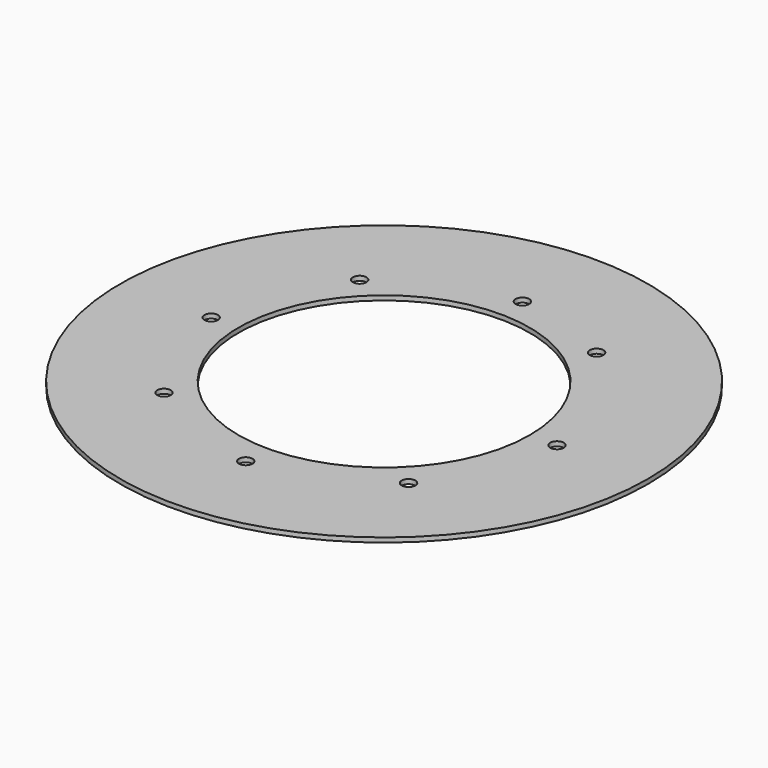
from build123d import *

# Parameters (mm, degrees)
CYLINDER2163_R               = 1.5
CYLINDER2163_DEPTH           = 100
CYLINDER2164_R               = 1.5
CYLINDER2164_DEPTH           = 100
CYLINDER2164_PLACEMENT_ANGLE = 145
CYLINDER2165_R               = 1.5
CYLINDER2165_DEPTH           = 100
CYLINDER2166_R               = 1.5
CYLINDER2166_DEPTH           = 100
CYLINDER2166_PLACEMENT_ANGLE = 225
CYLINDER2167_R               = 1.5
CYLINDER2167_DEPTH           = 100
CYLINDER2168_R               = 1.5
CYLINDER2168_DEPTH           = 100
CYLINDER2168_PLACEMENT_ANGLE = 45
CYLINDER2162_R               = 1.5
CYLINDER2162_DEPTH           = 100
CYLINDER2161_R               = 1.5
CYLINDER2161_DEPTH           = 100
CYLINDER2161_PLACEMENT_ANGLE = 45
TUBE089_R                    = 58
TUBE089_R_2                  = 32
TUBE089_DEPTH                = 1


with BuildPart() as obj1:
    # Cylinder2163 → Cylinder2163 (new body)
    with BuildSketch(Plane(origin=(38, 0, 0), x_dir=(0, 1, 0), z_dir=(0, 0, 1))):
        Circle(CYLINDER2163_R)
    extrude(amount=CYLINDER2163_DEPTH)


with BuildPart() as obj2:
    # Cylinder2164 → Cylinder2164 (new body)
    with BuildSketch(Plane.XY):
        Circle(CYLINDER2164_R)
    extrude(amount=CYLINDER2164_DEPTH)


with BuildPart() as obj2_1:
    # Cylinder2164 placement: moved
    add(obj2.part.moved(Location((21.795905, 31.127778, 0))).rotate(Axis((21.795905, 31.127778, 0), (0, 0, 1)), CYLINDER2164_PLACEMENT_ANGLE))


with BuildPart() as obj3:
    # Cylinder2165 → Cylinder2165 (new body)
    with BuildSketch(Plane(origin=(0, 38, 0), x_dir=(-1, 0, 0), z_dir=(0, 0, 1))):
        Circle(CYLINDER2165_R)
    extrude(amount=CYLINDER2165_DEPTH)


with BuildPart() as obj4:
    # Cylinder2166 → Cylinder2166 (new body)
    with BuildSketch(Plane.XY):
        Circle(CYLINDER2166_R)
    extrude(amount=CYLINDER2166_DEPTH)


with BuildPart() as obj4_1:
    # Cylinder2166 placement: moved
    add(obj4.part.moved(Location((-26.870058, 26.870058, 0))).rotate(Axis((-26.870058, 26.870058, 0), (0, 0, 1)), CYLINDER2166_PLACEMENT_ANGLE))


with BuildPart() as obj5:
    # Cylinder2167 → Cylinder2167 (new body)
    with BuildSketch(Plane(origin=(-38, 0, 0), x_dir=(0, -1, 0), z_dir=(0, 0, 1))):
        Circle(CYLINDER2167_R)
    extrude(amount=CYLINDER2167_DEPTH)


with BuildPart() as obj6:
    # Cylinder2168 → Cylinder2168 (new body)
    with BuildSketch(Plane.XY):
        Circle(CYLINDER2168_R)
    extrude(amount=CYLINDER2168_DEPTH)


with BuildPart() as obj6_1:
    # Cylinder2168 placement: moved
    add(obj6.part.moved(Location((-26.870058, -26.870058, 0))).rotate(Axis((-26.870058, -26.870058, 0), (0, 0, -1)), CYLINDER2168_PLACEMENT_ANGLE))


with BuildPart() as obj7:
    # Cylinder2162 → Cylinder2162 (new body)
    with BuildSketch(Plane(origin=(0, -38, 0), x_dir=(1, 0, 0), z_dir=(0, 0, 1))):
        Circle(CYLINDER2162_R)
    extrude(amount=CYLINDER2162_DEPTH)


with BuildPart() as compound1127:
    # Cylinder2161 → Cylinder2161 (new body)
    with BuildSketch(Plane.XY):
        Circle(CYLINDER2161_R)
    extrude(amount=CYLINDER2161_DEPTH)


with BuildPart() as compound1127_1:
    # Cylinder2161 placement: moved
    add(compound1127.part.moved(Location((26.870058, -26.870058, 0))).rotate(Axis((26.870058, -26.870058, 0), (0, 0, 1)), CYLINDER2161_PLACEMENT_ANGLE))

    # Compound1127: union obj1, obj2, obj3, obj4, obj5, obj6, obj7
    add(obj1.part)
    add(obj2_1.part)
    add(obj3.part)
    add(obj4_1.part)
    add(obj5.part)
    add(obj6_1.part)
    add(obj7.part)


with BuildPart() as cut715:
    # Tube089 → Tube089 (new body)
    with BuildSketch(Plane.XY.offset(42)):
        Circle(TUBE089_R)
        Circle(TUBE089_R_2, mode=Mode.SUBTRACT)
    extrude(amount=TUBE089_DEPTH)

    # Cut715: cut Compound1127
    add(compound1127_1.part, mode=Mode.SUBTRACT)


solid = cut715.part
